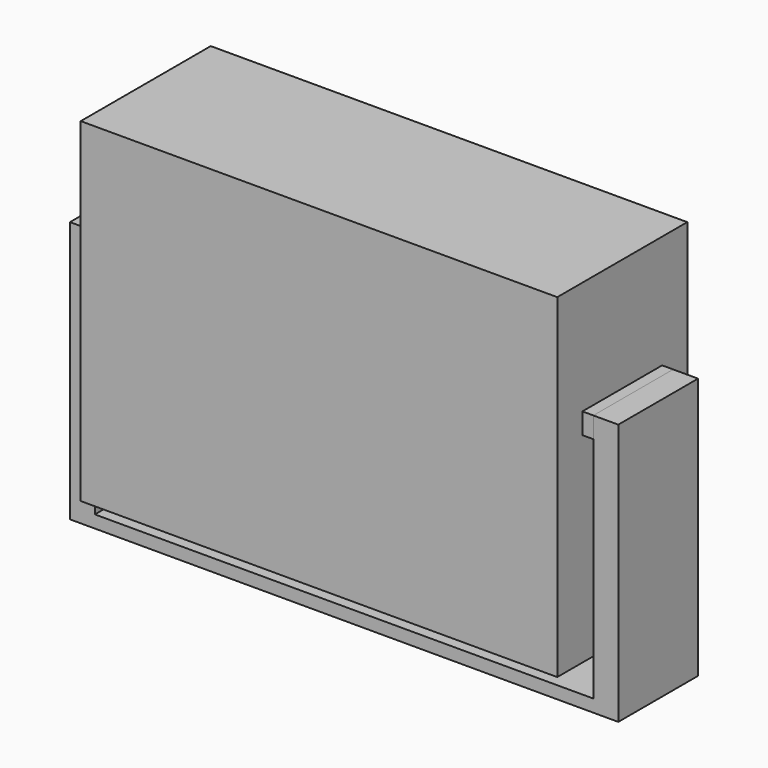
from build123d import *

# Parameters (mm, degrees)
F0_W     = 242.824
F0_H     = 82.804
F1_DEPTH = 170.434
F2_W     = 50.8
F2_H     = 6.35
F3_DEPTH = 139.7
F4_W     = 12.7
F4_H     = 50.8
F5_DEPTH = 127
F6_W     = 50.8
F6_H     = 10.654126
F7_DEPTH = 254


with BuildPart() as f1:
    # F0 (on Top) → F1 (new body)
    with BuildSketch(Plane.XY):
        with Locations((0, 12.977807)):
            Rectangle(F0_W, F0_H)
    extrude(amount=F1_DEPTH)


with BuildPart() as f3:
    # F2 (on Right) → F3 (new body, symmetric)
    with BuildSketch(Plane.YZ):
        with Locations((12.977807, -17.49383)):
            Rectangle(F2_W, F2_H)
    extrude(amount=F3_DEPTH, both=True)

    # F4 (on face) → F5 (join)
    with BuildSketch(Plane.XY.offset(-14.31883)):
        with Locations((-133.35, 12.977807)):
            Rectangle(F4_W, F4_H)
        with Locations((133.35, 12.977807)):
            Rectangle(F4_W, F4_H)
    extrude(amount=F5_DEPTH)


with BuildPart() as f7:
    # F6 (on face) → F7 (new body)
    with BuildSketch(Plane.YZ.offset(-127)):
        with Locations((12.977807, 107.354107)):
            Rectangle(F6_W, F6_H)
    extrude(amount=F7_DEPTH)


solid = Compound([f1.part, f3.part, f7.part])
